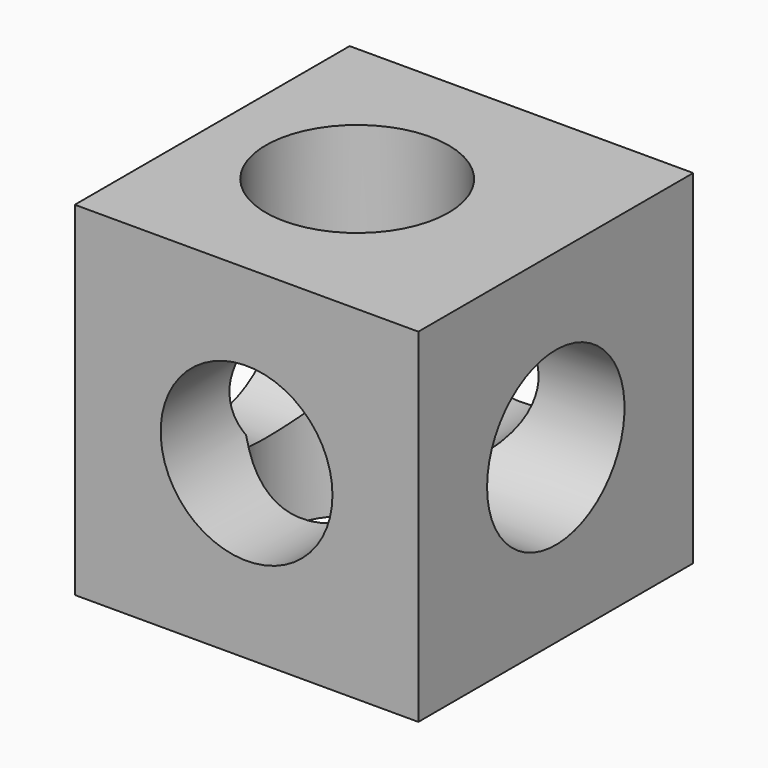
from build123d import *

# Parameters (mm, degrees)
F4_W     = 127
F4_H     = 127
F5_DEPTH = 127
F0_R     = 33.765141
F1_DEPTH = 193.619305
F2_R     = 31.75
F6_DEPTH = 333.532071
F3_R     = 31.75
F7_DEPTH = 161.238259


with BuildPart() as f5:
    # F4 (on Front) → F5 (new body)
    with BuildSketch(Plane.XZ):
        with Locations((9.909629, 40.707156)):
            Rectangle(F4_W, F4_H)
    extrude(amount=F5_DEPTH)

    # F0 (on face) → F1 (cut)
    with BuildSketch(Plane.XY.offset(104.207156)):
        with Locations((0, -63.5)):
            Circle(F0_R)
    extrude(amount=-F1_DEPTH, mode=Mode.SUBTRACT)

    # F2 (on face) → F6 (cut)
    with BuildSketch(Plane.XZ.offset(127)):
        with Locations((9.909629, 40.707156)):
            Circle(F2_R)
    extrude(amount=-F6_DEPTH, mode=Mode.SUBTRACT)

    # F3 (on face) → F7 (cut)
    with BuildSketch(Plane(origin=(-53.590371, 0, 0), x_dir=(0, -1, 0), z_dir=(-1, 0, 0))):
        with Locations((63.5, 40.707156)):
            Circle(F3_R)
    extrude(amount=-F7_DEPTH, mode=Mode.SUBTRACT)


solid = f5.part
